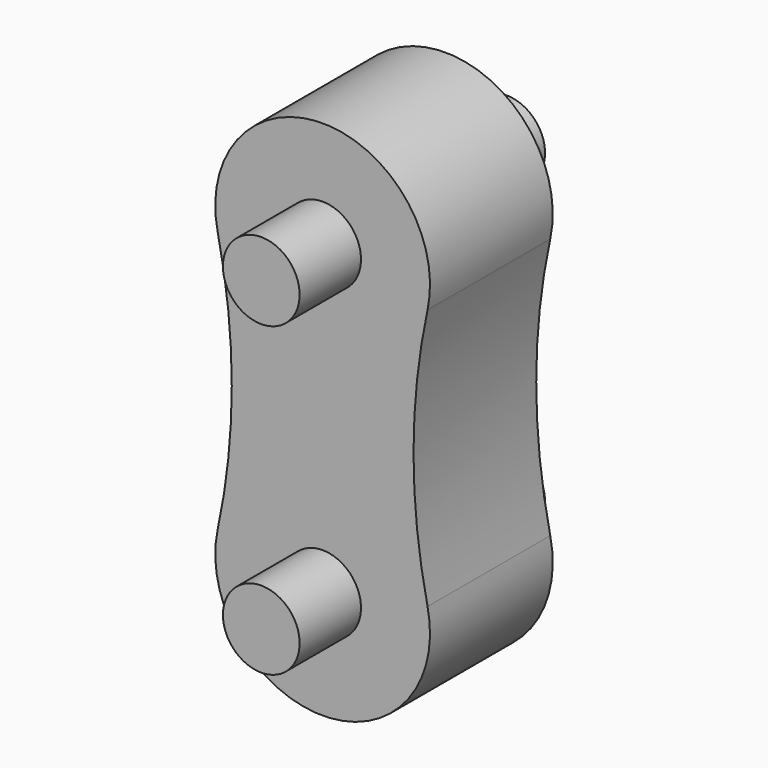
from build123d import *

# Parameters (mm, degrees)
F1_DEPTH      = 10
F2_R          = 2.5
F3_DEPTH      = 5
F3_DEPTH_BACK = 15


with BuildPart() as f1:
    # F0 (on Front) → F1 (new body)
    with BuildSketch(Plane.XZ):
        with BuildLine():
            ThreePointArc((-6.839722, 8.510638), (-5.92385, 0), (-6.839722, -8.510638))
            ThreePointArc((-6.839722, -8.510638), (0, -17), (6.839722, -8.510638))
            ThreePointArc((6.839722, -8.510638), (5.92385, 0), (6.839722, 8.510638))
            ThreePointArc((6.839722, 8.510638), (0, 17), (-6.839722, 8.510638))
        make_face()
    extrude(amount=F1_DEPTH)

    # F2 (on face) → F3 (join, two sides)
    with BuildSketch(Plane(origin=(0, 0, 0), x_dir=(-1, 0, 0), z_dir=(0, 1, 0))) as f3_sk:
        with Locations((0, 10)):
            Circle(F2_R)
        with Locations((0, -10)):
            Circle(F2_R)
    extrude(amount=F3_DEPTH)
    extrude(f3_sk.sketch, amount=-F3_DEPTH_BACK)


solid = f1.part
